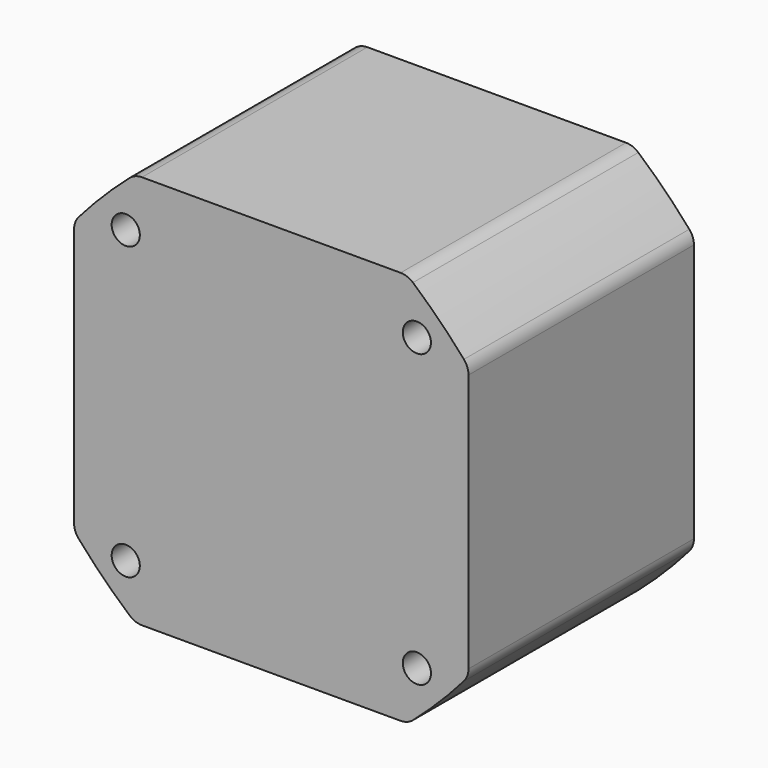
from build123d import *

# Parameters (mm, degrees)
F1_DEPTH = 15
F2_R     = 2
F3_R     = 1.5
F4_DEPTH = 30.001


with BuildPart() as f1:
    # F0 (on Front) → F1 (new body, symmetric)
    with BuildSketch(Plane.XZ):
        with BuildLine():
            ThreePointArc((-14.510562, 21), (-17.890873, 17.890873), (-21, 14.510562))
            Line((-21, 14.510562), (-21, -14.510562))
            ThreePointArc((-21, -14.510562), (-17.890873, -17.890873), (-14.510562, -21))
            Line((-14.510562, -21), (14.510562, -21))
            ThreePointArc((14.510562, -21), (17.890873, -17.890873), (21, -14.510562))
            Line((21, -14.510562), (21, 14.510562))
            ThreePointArc((21, 14.510562), (17.890873, 17.890873), (14.510562, 21))
            Line((14.510562, 21), (-14.510562, 21))
        make_face()
    extrude(amount=F1_DEPTH, both=True)

    # F2
    f2_edges = [f1.edges().sort_by_distance(p)[0] for p in [
        (14.510562, 0, 21),
        (21, 0, 14.510562),
        (21, 0, -14.510562),
        (14.510562, 0, -21),
        (-14.510562, 0, -21),
        (-21, 0, -14.510562),
        (-21, 0, 14.510562),
        (-14.510562, 0, 21),
    ]]
    fillet(f2_edges, radius=F2_R)

    # F3 (on face) → F4 (cut, through all)
    with BuildSketch(Plane.XZ.offset(15)):
        with Locations((15.5, 15.5)):
            Circle(F3_R)
        with Locations((-15.5, 15.5)):
            Circle(F3_R)
        with Locations((-15.5, -15.5)):
            Circle(F3_R)
        with Locations((15.5, -15.5)):
            Circle(F3_R)
    extrude(amount=-F4_DEPTH, mode=Mode.SUBTRACT)


solid = f1.part
